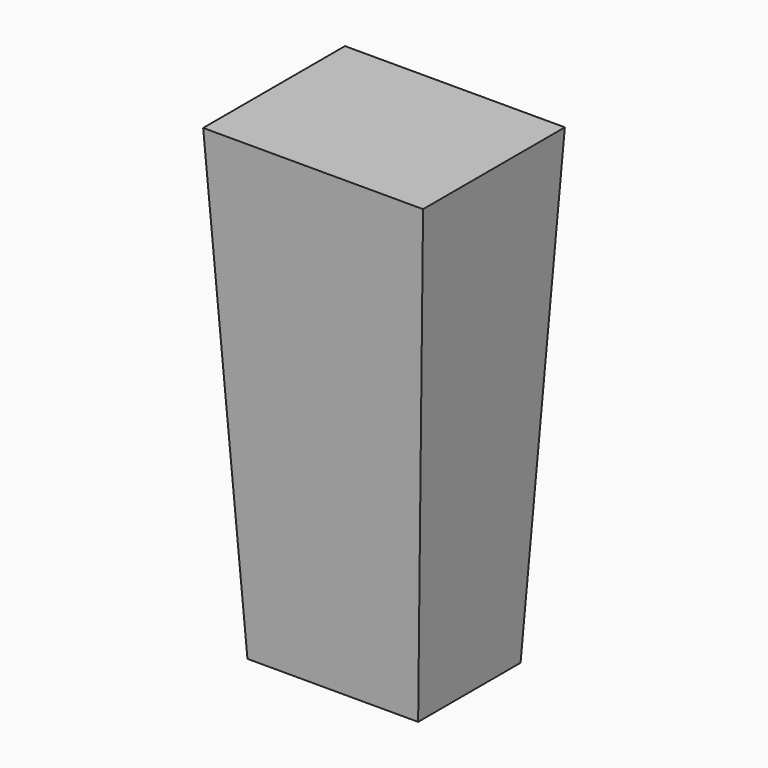
from build123d import *

# Parameters (mm, degrees)
F0_W     = 40
F0_H     = 30
F1_DEPTH = 110
F1_TAPER = -3
F2_W     = 35
F2_H     = 25
F3_DEPTH = 10


with BuildPart() as f1:
    # F0 (on Top) → F1 (new body)
    with BuildSketch(Plane.XY):
        with Locations((-30.053210146, -58.0066898444)):
            Rectangle(F0_W, F0_H)
    extrude(amount=F1_DEPTH, taper=F1_TAPER)

    # F2 (on face) → F3 (cut)
    with BuildSketch(Plane(origin=(0, 0, 0), x_dir=(1, 0, 0), z_dir=(0, 0, -1))):
        with Locations((-30.053210146, 58.0066898444)):
            Rectangle(F2_W, F2_H)
    extrude(amount=-F3_DEPTH, mode=Mode.SUBTRACT)


solid = f1.part
